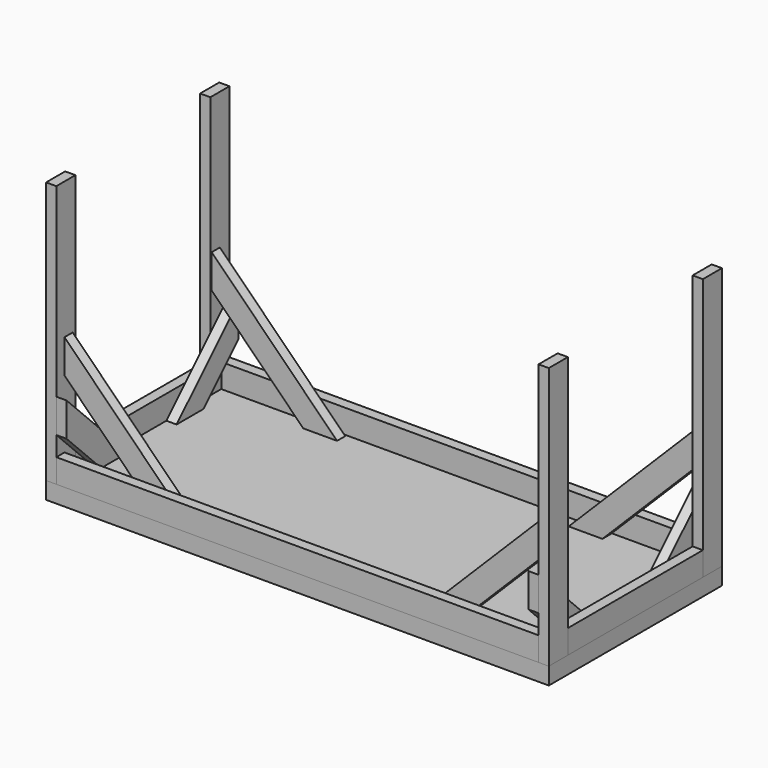
from build123d import *

# Parameters (mm, degrees)
F0_W      = 1873.25
F0_H      = 806.45
F1_DEPTH  = 63.5
F2_W      = 38.1
F2_H      = 88.9
F3_DEPTH  = 977.9
F4_W      = 38.1
F4_H      = 314.325
F5_DEPTH  = 88.9
F7_DEPTH  = 38.1
F12_DEPTH = 38.1


with BuildPart() as f1:
    # F0 (on Top) → F1 (new body)
    with BuildSketch(Plane.XY):
        with Locations((936.625, 403.225)):
            Rectangle(F0_W, F0_H)
    extrude(amount=F1_DEPTH)


with BuildPart() as f3:
    # F2 (on face) → F3 (new body)
    with BuildSketch(Plane.XY.offset(63.5)):
        with Locations((19.05, 762)):
            Rectangle(F2_W, F2_H)
        with Locations((19.05, 44.45)):
            Rectangle(F2_W, F2_H)
        with Locations((1854.2, 44.45)):
            Rectangle(F2_W, F2_H)
        with Locations((1854.2, 762)):
            Rectangle(F2_W, F2_H)
    extrude(amount=F3_DEPTH)


with BuildPart() as f5:
    # F4 (on face) → F5 (new body)
    with BuildSketch(Plane.XY.offset(63.5)):
        with Locations((19.05, 560.3875)):
            Rectangle(F4_W, F4_H)
        with Locations((19.05, 246.0625)):
            Rectangle(F4_W, F4_H)
        Polygon((38.1, 38.1), (38.1, 0), (1835.15, 0), (1835.15, 38.1), (936.625, 38.1), align=None)
        Polygon((38.1, 768.35), (936.625, 768.35), (1835.15, 768.35), (1835.15, 806.45), (38.1, 806.45), align=None)
        with Locations((1854.2, 560.3875)):
            Rectangle(F4_W, F4_H)
        with Locations((1854.2, 246.0625)):
            Rectangle(F4_W, F4_H)
    extrude(amount=F5_DEPTH)


with BuildPart() as f7:
    # F6 (on face) → F7 (new body)
    with BuildSketch(Plane(origin=(0, 38.1, 0), x_dir=(-1, 0, 0), z_dir=(0, 1, 0))):
        Polygon((-38.1, 530.473318), (-416.173318, 152.4), (-290.449733, 152.4), (-38.1, 404.749733), align=None)
        Polygon((-416.173318, 152.4), (-505.073318, 63.5), (-379.349733, 63.5), (-290.449733, 152.4), align=None)
        Polygon((-1582.800267, 152.4), (-1457.076682, 152.4), (-1835.15, 530.473318), (-1835.15, 404.749733), align=None)
        Polygon((-1493.900267, 63.5), (-1368.176682, 63.5), (-1457.076682, 152.4), (-1582.800267, 152.4), align=None)
    extrude(amount=F7_DEPTH)


with BuildPart() as f9_1:
    # F9: instance of F7
    add(f7.part.mirror(Plane(origin=(936.625, 400.05, 31.75), x_dir=(1, 0, 0), z_dir=(0, -1, 0))))


with BuildPart() as f12:
    # F11 (on face) → F12 (new body)
    with BuildSketch(Plane.YZ.offset(38.1)):
        Polygon((0, 225.14461), (88.9, 136.24461), (88.9, 152.4), (198.468196, 152.4), (0, 350.868196), align=None)
        Polygon((88.9, 136.24461), (161.64461, 63.5), (287.368196, 63.5), (198.468196, 152.4), (88.9, 152.4), align=None)
    extrude(amount=F12_DEPTH)


with BuildPart() as f13_1:
    # F13: instance of F12
    add(f12.part.mirror(Plane(origin=(936.625, 400.05, 31.75), x_dir=(1, 0, 0), z_dir=(0, -1, 0))))


with BuildPart() as f14_1:
    # F14: instance of F12
    add(f12.part.mirror(Plane(origin=(936.625, 403.225, 107.95), x_dir=(0, -1, 0), z_dir=(-1, 0, 0))))


with BuildPart() as f14_2:
    # F14: instance of F13_1
    add(f13_1.part.mirror(Plane(origin=(936.625, 403.225, 107.95), x_dir=(0, -1, 0), z_dir=(-1, 0, 0))))


solid = Compound([f1.part, f3.part, f5.part, f7.part, f9_1.part, f12.part, f13_1.part, f14_1.part, f14_2.part])
